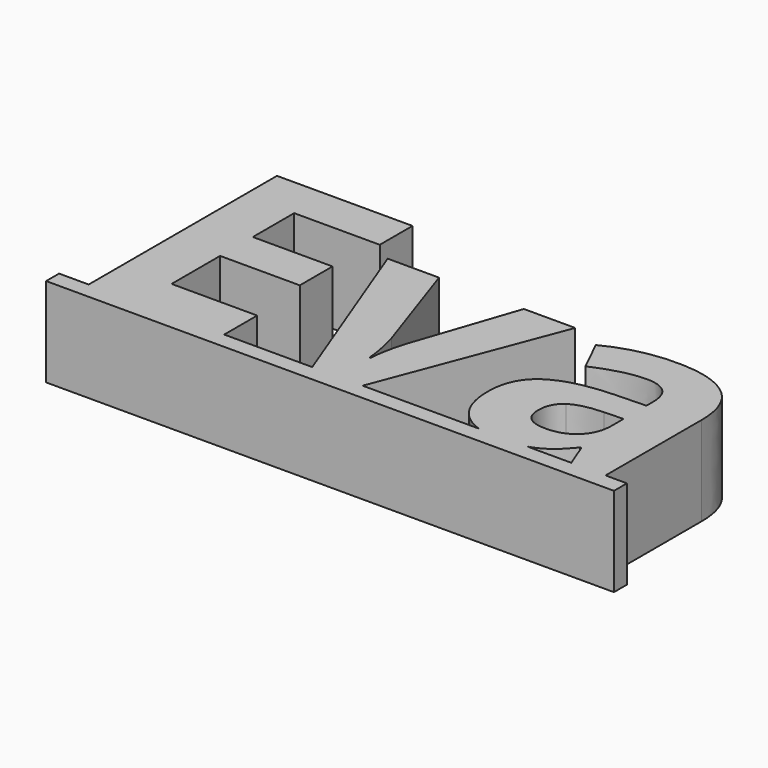
from build123d import *

# Parameters (mm, degrees)
F1_DEPTH = 5.5
F2_DEPTH = 5


with BuildPart() as f1:
    # F0 (on Top) → F1 (new body)
    with BuildSketch(Plane.XY):
        with BuildLine():
            Line((-15.6744375907, -8.8027354735), (-17.5, -8.8027354735))
            Line((-17.5, -8.8027354735), (-17.5, -9.8027354735))
            Line((-17.5, -9.8027354735), (17.5, -9.8027354735))
            Line((17.5, -9.8027354735), (17.5, -8.8027354735))
            Line((17.5, -8.8027354735), (16.1824201742, -8.8027354735))
            Line((16.1824201742, -8.8027354735), (14.0711175617, -8.8027354735))
            Line((14.0711175617, -8.8027354735), (11.3642028302, -8.8027354735))
            add(Edge.make_bspline(
                [(11.3642028302, -8.8027354735), (10.6755229249, -9.0027536157), (9.724691582, -9.0027536157)],
                knots=[0.2677635541, 0.2677635541, 0.2677635541, 1, 1, 1], degree=2))
            add(Edge.make_bspline(
                [(9.724691582, -9.0027536157), (8.977777142, -9.0027536157), (8.3794872938, -8.8027354735)],
                knots=[0, 0, 0, 0.4677071733, 0.4677071733, 0.4677071733], degree=2))
            Line((8.3794872938, -8.8027354735), (1.2096335269, -8.8027354735))
            Line((1.2096335269, -8.8027354735), (-1.8954100145, -8.8027354735))
            Line((-1.8954100145, -8.8027354735), (-7.321298984, -8.8027354735))
            Line((-7.321298984, -8.8027354735), (-15.6744375907, -8.8027354735))
        make_face()
        Polygon((-15.6744375907, 5.7033421753), (-15.6744375907, -8.8027354735), (-7.321298984, -8.8027354735), (-7.321298984, -6.2628225562), (-12.5979680697, -6.2628225562), (-12.5979680697, -2.5228007856), (-7.6864114659, -2.5228007856), (-7.6864114659, -0.0019372152), (-12.5979680697, -0.0019372152), (-12.5979680697, 3.1824786049), (-7.321298984, 3.1824786049), (-7.321298984, 5.7033421753), align=None)
        with BuildLine():
            Line((-6.1211901306, 2.2903341927), (-1.8954100145, -8.8027354735))
            Line((-1.8954100145, -8.8027354735), (1.2096335269, -8.8027354735))
            Line((1.2096335269, -8.8027354735), (5.4385885341, 2.2903341927))
            Line((5.4385885341, 2.2903341927), (2.273222061, 2.2903341927))
            Line((2.273222061, 2.2903341927), (0.1396952104, -4.0308740802))
            add(Edge.make_bspline(
                [(-0.3079644412, -6.30092125), (-0.2571661829, -5.348453906), (0.1396952104, -4.0308740802)],
                knots=[0, 0, 0, 1, 1, 1], degree=2))
            Line((-0.3079644412, -6.30092125), (-0.3651124819, -6.30092125))
            add(Edge.make_bspline(
                [(-0.8127721335, -4.0308740802), (-0.4571843251, -5.2309829336), (-0.3651124819, -6.30092125)],
                knots=[0, 0, 0, 1, 1, 1], degree=2))
            Line((-0.8127721335, -4.0308740802), (-2.9558236575, 2.2903341927))
            Line((-2.9558236575, 2.2903341927), (-6.1211901306, 2.2903341927))
        make_face()
        with BuildLine():
            Line((14.0711175617, -8.8027354735), (16.1824201742, -8.8027354735))
            Line((16.1824201742, -8.8027354735), (16.1824201742, -1.4115888843))
            add(Edge.make_bspline(
                [(14.9918359942, 1.5458222188), (16.1824201742, 0.5727180824), (16.1824201742, -1.4115888843)],
                knots=[0, 0, 0, 1, 1, 1], degree=2))
            add(Edge.make_bspline(
                [(11.5693033382, 2.5189263552), (13.8012518142, 2.5189263552), (14.9918359942, 1.5458222188)],
                knots=[0, 0, 0, 1, 1, 1], degree=2))
            add(Edge.make_bspline(
                [(7.3244738752, 1.5156607529), (9.2389332366, 2.5189263552), (11.5693033382, 2.5189263552)],
                knots=[0, 0, 0, 1, 1, 1], degree=2))
            Line((7.3244738752, 1.5156607529), (8.3245645864, -0.5289691455))
            add(Edge.make_bspline(
                [(11.4518323657, 0.2742783146), (10.1215529753, 0.2742783146), (8.3245645864, -0.5289691455)],
                knots=[0, 0, 0, 1, 1, 1], degree=2))
            add(Edge.make_bspline(
                [(13.1789731495, -1.4115888843), (13.1789731495, 0.2742783146), (11.4518323657, 0.2742783146)],
                knots=[0, 0, 0, 1, 1, 1], degree=2))
            Line((13.1789731495, -1.4115888843), (13.1789731495, -1.8973472297))
            Line((13.1789731495, -1.8973472297), (11.2518142235, -1.9576701615))
            add(Edge.make_bspline(
                [(7.5276669086, -2.8847383763), (8.7626995646, -2.0465671136), (11.2518142235, -1.9576701615)],
                knots=[0, 0, 0, 1, 1, 1], degree=2))
            add(Edge.make_bspline(
                [(6.2926342525, -5.4881491165), (6.2926342525, -3.722909639), (7.5276669086, -2.8847383763)],
                knots=[0, 0, 0, 1, 1, 1], degree=2))
            add(Edge.make_bspline(
                [(7.2101777939, -8.0883849655), (6.2926342525, -7.1740163153), (6.2926342525, -5.4881491165)],
                knots=[0, 0, 0, 1, 1, 1], degree=2))
            add(Edge.make_bspline(
                [(8.3794872938, -8.8027354735), (7.6985796391, -8.575096839), (7.2101777939, -8.0883849655)],
                knots=[0.4677071733, 0.4677071733, 0.4677071733, 1, 1, 1], degree=2))
            Line((8.3794872938, -8.8027354735), (11.3642028302, -8.8027354735))
            add(Edge.make_bspline(
                [(11.8328193033, -8.629703906), (11.6160386684, -8.7295930221), (11.3642028302, -8.8027354735)],
                knots=[0, 0, 0, 0.2677635541, 0.2677635541, 0.2677635541], degree=2))
            add(Edge.make_bspline(
                [(13.4043904209, -7.2946621789), (12.6424165457, -8.2566541963), (11.8328193033, -8.629703906)],
                knots=[0, 0, 0, 1, 1, 1], degree=2))
            Line((13.4043904209, -7.2946621789), (13.4837626996, -7.2946621789))
            Line((13.4837626996, -7.2946621789), (14.0711175617, -8.8027354735))
        make_face()
        with BuildLine():
            Line((12.0074383164, -3.7038602921), (13.1789731495, -3.6625867072))
            Line((13.1789731495, -3.6625867072), (13.1789731495, -4.5769553574))
            add(Edge.make_bspline(
                [(12.5487572569, -6.1834502776), (13.1789731495, -5.5770460686), (13.1789731495, -4.5769553574)],
                knots=[0, 0, 0, 1, 1, 1], degree=2))
            add(Edge.make_bspline(
                [(10.8644775036, -6.7898544866), (11.9185413643, -6.7898544866), (12.5487572569, -6.1834502776)],
                knots=[0, 0, 0, 1, 1, 1], degree=2))
            add(Edge.make_bspline(
                [(9.3976777939, -5.5071984634), (9.3976777939, -6.7898544866), (10.8644775036, -6.7898544866)],
                knots=[0, 0, 0, 1, 1, 1], degree=2))
            add(Edge.make_bspline(
                [(10.0421806967, -4.1785065185), (9.3976777939, -4.6150540512), (9.3976777939, -5.5071984634)],
                knots=[0, 0, 0, 1, 1, 1], degree=2))
            add(Edge.make_bspline(
                [(12.0074383164, -3.7038602921), (10.6866835994, -3.7419589859), (10.0421806967, -4.1785065185)],
                knots=[0, 0, 0, 1, 1, 1], degree=2))
        make_face(mode=Mode.SUBTRACT)
        with BuildLine():
            Line((11.3642028302, -8.8027354735), (8.3794872938, -8.8027354735))
            add(Edge.make_bspline(
                [(9.724691582, -9.0027536157), (8.977777142, -9.0027536157), (8.3794872938, -8.8027354735)],
                knots=[0, 0, 0, 0.4677071733, 0.4677071733, 0.4677071733], degree=2))
            add(Edge.make_bspline(
                [(11.3642028302, -8.8027354735), (10.6755229249, -9.0027536157), (9.724691582, -9.0027536157)],
                knots=[0.2677635541, 0.2677635541, 0.2677635541, 1, 1, 1], degree=2))
        make_face()
    extrude(amount=F1_DEPTH)

    # F0 (on Top) → F2 (join)
    with BuildSketch(Plane.XY):
        with BuildLine():
            Line((-15.6744375907, -8.8027354735), (-17.5, -8.8027354735))
            Line((-17.5, -8.8027354735), (-17.5, -9.8027354735))
            Line((-17.5, -9.8027354735), (17.5, -9.8027354735))
            Line((17.5, -9.8027354735), (17.5, -8.8027354735))
            Line((17.5, -8.8027354735), (16.1824201742, -8.8027354735))
            Line((16.1824201742, -8.8027354735), (14.0711175617, -8.8027354735))
            Line((14.0711175617, -8.8027354735), (11.3642028302, -8.8027354735))
            add(Edge.make_bspline(
                [(11.3642028302, -8.8027354735), (10.6755229249, -9.0027536157), (9.724691582, -9.0027536157)],
                knots=[0.2677635541, 0.2677635541, 0.2677635541, 1, 1, 1], degree=2))
            add(Edge.make_bspline(
                [(9.724691582, -9.0027536157), (8.977777142, -9.0027536157), (8.3794872938, -8.8027354735)],
                knots=[0, 0, 0, 0.4677071733, 0.4677071733, 0.4677071733], degree=2))
            Line((8.3794872938, -8.8027354735), (1.2096335269, -8.8027354735))
            Line((1.2096335269, -8.8027354735), (-1.8954100145, -8.8027354735))
            Line((-1.8954100145, -8.8027354735), (-7.321298984, -8.8027354735))
            Line((-7.321298984, -8.8027354735), (-15.6744375907, -8.8027354735))
        make_face()
        Polygon((-15.6744375907, 5.7033421753), (-15.6744375907, -8.8027354735), (-7.321298984, -8.8027354735), (-7.321298984, -6.2628225562), (-12.5979680697, -6.2628225562), (-12.5979680697, -2.5228007856), (-7.6864114659, -2.5228007856), (-7.6864114659, -0.0019372152), (-12.5979680697, -0.0019372152), (-12.5979680697, 3.1824786049), (-7.321298984, 3.1824786049), (-7.321298984, 5.7033421753), align=None)
        with BuildLine():
            Line((-6.1211901306, 2.2903341927), (-1.8954100145, -8.8027354735))
            Line((-1.8954100145, -8.8027354735), (1.2096335269, -8.8027354735))
            Line((1.2096335269, -8.8027354735), (5.4385885341, 2.2903341927))
            Line((5.4385885341, 2.2903341927), (2.273222061, 2.2903341927))
            Line((2.273222061, 2.2903341927), (0.1396952104, -4.0308740802))
            add(Edge.make_bspline(
                [(-0.3079644412, -6.30092125), (-0.2571661829, -5.348453906), (0.1396952104, -4.0308740802)],
                knots=[0, 0, 0, 1, 1, 1], degree=2))
            Line((-0.3079644412, -6.30092125), (-0.3651124819, -6.30092125))
            add(Edge.make_bspline(
                [(-0.8127721335, -4.0308740802), (-0.4571843251, -5.2309829336), (-0.3651124819, -6.30092125)],
                knots=[0, 0, 0, 1, 1, 1], degree=2))
            Line((-0.8127721335, -4.0308740802), (-2.9558236575, 2.2903341927))
            Line((-2.9558236575, 2.2903341927), (-6.1211901306, 2.2903341927))
        make_face()
        with BuildLine():
            Line((14.0711175617, -8.8027354735), (16.1824201742, -8.8027354735))
            Line((16.1824201742, -8.8027354735), (16.1824201742, -1.4115888843))
            add(Edge.make_bspline(
                [(14.9918359942, 1.5458222188), (16.1824201742, 0.5727180824), (16.1824201742, -1.4115888843)],
                knots=[0, 0, 0, 1, 1, 1], degree=2))
            add(Edge.make_bspline(
                [(11.5693033382, 2.5189263552), (13.8012518142, 2.5189263552), (14.9918359942, 1.5458222188)],
                knots=[0, 0, 0, 1, 1, 1], degree=2))
            add(Edge.make_bspline(
                [(7.3244738752, 1.5156607529), (9.2389332366, 2.5189263552), (11.5693033382, 2.5189263552)],
                knots=[0, 0, 0, 1, 1, 1], degree=2))
            Line((7.3244738752, 1.5156607529), (8.3245645864, -0.5289691455))
            add(Edge.make_bspline(
                [(11.4518323657, 0.2742783146), (10.1215529753, 0.2742783146), (8.3245645864, -0.5289691455)],
                knots=[0, 0, 0, 1, 1, 1], degree=2))
            add(Edge.make_bspline(
                [(13.1789731495, -1.4115888843), (13.1789731495, 0.2742783146), (11.4518323657, 0.2742783146)],
                knots=[0, 0, 0, 1, 1, 1], degree=2))
            Line((13.1789731495, -1.4115888843), (13.1789731495, -1.8973472297))
            Line((13.1789731495, -1.8973472297), (11.2518142235, -1.9576701615))
            add(Edge.make_bspline(
                [(7.5276669086, -2.8847383763), (8.7626995646, -2.0465671136), (11.2518142235, -1.9576701615)],
                knots=[0, 0, 0, 1, 1, 1], degree=2))
            add(Edge.make_bspline(
                [(6.2926342525, -5.4881491165), (6.2926342525, -3.722909639), (7.5276669086, -2.8847383763)],
                knots=[0, 0, 0, 1, 1, 1], degree=2))
            add(Edge.make_bspline(
                [(7.2101777939, -8.0883849655), (6.2926342525, -7.1740163153), (6.2926342525, -5.4881491165)],
                knots=[0, 0, 0, 1, 1, 1], degree=2))
            add(Edge.make_bspline(
                [(8.3794872938, -8.8027354735), (7.6985796391, -8.575096839), (7.2101777939, -8.0883849655)],
                knots=[0.4677071733, 0.4677071733, 0.4677071733, 1, 1, 1], degree=2))
            Line((8.3794872938, -8.8027354735), (11.3642028302, -8.8027354735))
            add(Edge.make_bspline(
                [(11.8328193033, -8.629703906), (11.6160386684, -8.7295930221), (11.3642028302, -8.8027354735)],
                knots=[0, 0, 0, 0.2677635541, 0.2677635541, 0.2677635541], degree=2))
            add(Edge.make_bspline(
                [(13.4043904209, -7.2946621789), (12.6424165457, -8.2566541963), (11.8328193033, -8.629703906)],
                knots=[0, 0, 0, 1, 1, 1], degree=2))
            Line((13.4043904209, -7.2946621789), (13.4837626996, -7.2946621789))
            Line((13.4837626996, -7.2946621789), (14.0711175617, -8.8027354735))
        make_face()
        with BuildLine():
            Line((12.0074383164, -3.7038602921), (13.1789731495, -3.6625867072))
            Line((13.1789731495, -3.6625867072), (13.1789731495, -4.5769553574))
            add(Edge.make_bspline(
                [(12.5487572569, -6.1834502776), (13.1789731495, -5.5770460686), (13.1789731495, -4.5769553574)],
                knots=[0, 0, 0, 1, 1, 1], degree=2))
            add(Edge.make_bspline(
                [(10.8644775036, -6.7898544866), (11.9185413643, -6.7898544866), (12.5487572569, -6.1834502776)],
                knots=[0, 0, 0, 1, 1, 1], degree=2))
            add(Edge.make_bspline(
                [(9.3976777939, -5.5071984634), (9.3976777939, -6.7898544866), (10.8644775036, -6.7898544866)],
                knots=[0, 0, 0, 1, 1, 1], degree=2))
            add(Edge.make_bspline(
                [(10.0421806967, -4.1785065185), (9.3976777939, -4.6150540512), (9.3976777939, -5.5071984634)],
                knots=[0, 0, 0, 1, 1, 1], degree=2))
            add(Edge.make_bspline(
                [(12.0074383164, -3.7038602921), (10.6866835994, -3.7419589859), (10.0421806967, -4.1785065185)],
                knots=[0, 0, 0, 1, 1, 1], degree=2))
        make_face(mode=Mode.SUBTRACT)
        with BuildLine():
            Line((11.3642028302, -8.8027354735), (8.3794872938, -8.8027354735))
            add(Edge.make_bspline(
                [(9.724691582, -9.0027536157), (8.977777142, -9.0027536157), (8.3794872938, -8.8027354735)],
                knots=[0, 0, 0, 0.4677071733, 0.4677071733, 0.4677071733], degree=2))
            add(Edge.make_bspline(
                [(11.3642028302, -8.8027354735), (10.6755229249, -9.0027536157), (9.724691582, -9.0027536157)],
                knots=[0.2677635541, 0.2677635541, 0.2677635541, 1, 1, 1], degree=2))
        make_face()
    extrude(amount=F2_DEPTH)


solid = f1.part
